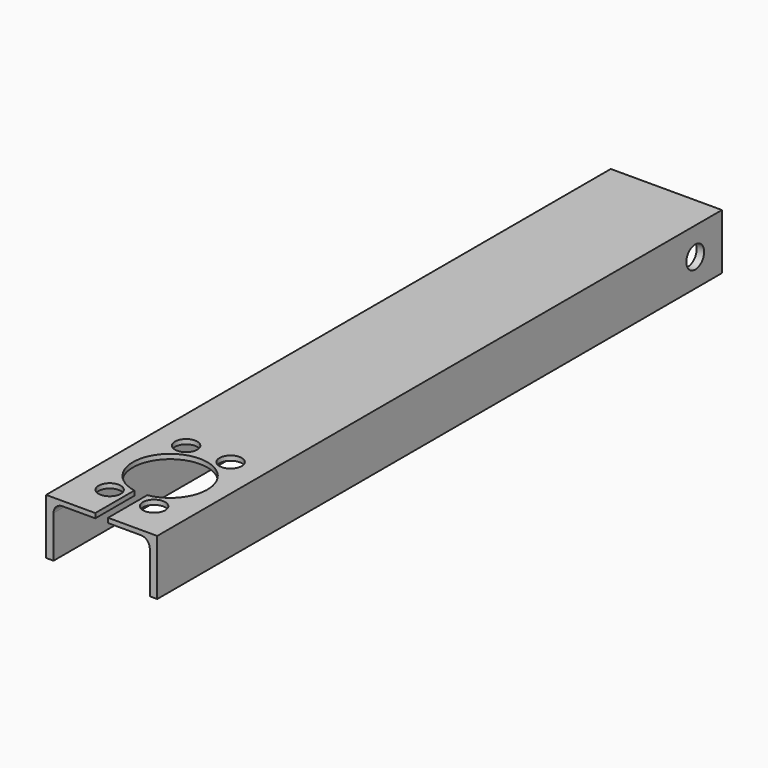
from build123d import *

# Parameters (mm, degrees)
F1_DEPTH = 635
F3_DEPTH = 4.2
F4_R     = 10
F5_DEPTH = 4.2
F6_R     = 10
F7_DEPTH = 100


with BuildPart() as f1:
    # F0 (on Front) → F1 (new body)
    with BuildSketch(Plane.XZ):
        with BuildLine():
            Line((50, 0), (0, 0))
            Line((0, 0), (-50, 0))
            Line((-50, 0), (-50, -50))
            Line((-50, -50), (-43.3, -50))
            Line((-43.3, -50), (-43.3, -12.2))
            ThreePointArc((-43.3, -12.2), (-40.956854, -6.543146), (-35.3, -4.2))
            Line((-35.3, -4.2), (0, -4.2))
            Line((0, -4.2), (35.3, -4.2))
            ThreePointArc((35.3, -4.2), (40.956854, -6.543146), (43.3, -12.2))
            Line((43.3, -12.2), (43.3, -50))
            Line((43.3, -50), (50, -50))
            Line((50, -50), (50, 0))
        make_face()
    extrude(amount=-F1_DEPTH)

    # F2 (on face) → F3 (cut, through all)
    with BuildSketch(Plane.XY):
        with BuildLine():
            Line((5.75, 0), (5.75, 43.997159))
            ThreePointArc((5.75, 43.997159), (0, 110.5), (-5.75, 43.997159))
            Line((-5.75, 43.997159), (-5.75, 0))
            Line((-5.75, 0), (5.75, 0))
        make_face()
    extrude(amount=-F3_DEPTH, mode=Mode.SUBTRACT)

    # F4 (on face) → F5 (cut, through all)
    with BuildSketch(Plane.XY):
        with Locations((-20, 34)):
            Circle(F4_R)
        with Locations((-20, 120)):
            Circle(F4_R)
        with Locations((20, 34)):
            Circle(F4_R)
        with Locations((20, 120)):
            Circle(F4_R)
    extrude(amount=-F5_DEPTH, mode=Mode.SUBTRACT)

    # F6 (on face) → F7 (cut, through all)
    with BuildSketch(Plane(origin=(-50, 0, 0), x_dir=(0, -1, 0), z_dir=(-1, 0, 0))):
        with Locations((-605, -25)):
            Circle(F6_R)
    extrude(amount=-F7_DEPTH, mode=Mode.SUBTRACT)


solid = f1.part
